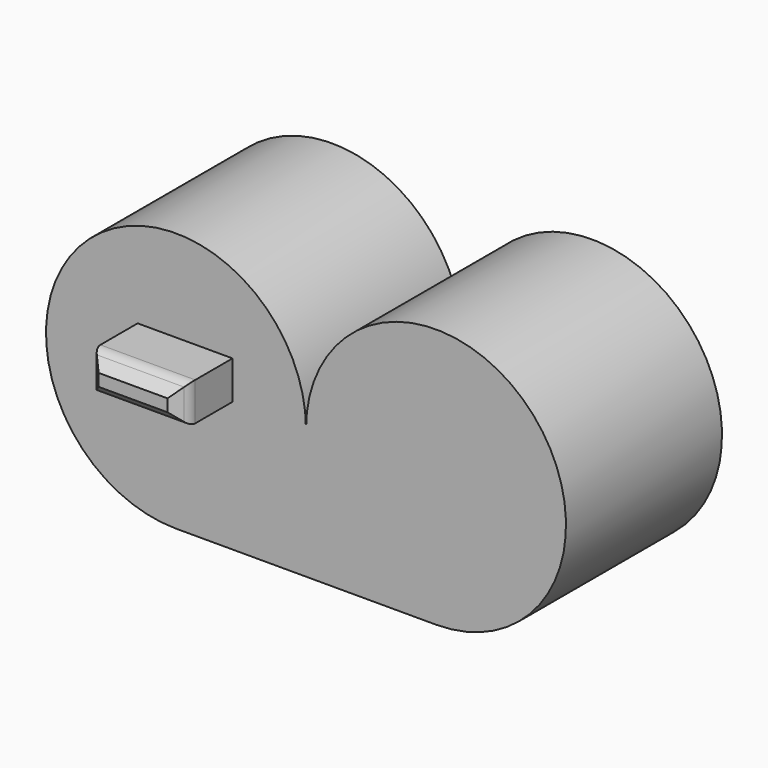
from build123d import *

# Parameters (mm, degrees)
F1_DEPTH = 76.2
F2_W     = 37.0748843998
F2_H     = 14.9495508522
F3_DEPTH = 25.4
F4_SIZE  = 5.08
F5_R     = 5.08


with BuildPart() as f1:
    # F0 (on Front) → F1 (new body)
    with BuildSketch(Plane.XZ):
        with BuildLine():
            ThreePointArc((0, 0), (-86.7210244843, 35.9210244843), (-50.8, -50.8))
            Line((-50.8, -50.8), (50.8, -50.8))
            ThreePointArc((50.8, -50.8), (86.7210244843, 35.9210244843), (0, 0))
        make_face()
    extrude(amount=F1_DEPTH)

    # F2 (on face) → F3 (join)
    with BuildSketch(Plane.XZ.offset(76.2)):
        with Locations((-47.2405822948, 7.4747754261)):
            Rectangle(F2_W, F2_H)
    extrude(amount=F3_DEPTH)

    # F4
    f4_edges = [f1.edges().sort_by_distance(p)[0] for p in [
        (-47.240582, -101.6, 14.949551),
        (-65.778024, -101.6, 7.474775),
        (-47.240582, -101.6, 0),
        (-28.70314, -101.6, 7.474775),
    ]]
    chamfer(f4_edges, length=F4_SIZE)

    # F5
    f5_edges = [f1.edges().sort_by_distance(p)[0] for p in [
        (-47.240582, -96.52, 0),
        (-65.778024, -96.52, 7.474775),
        (-47.240582, -96.52, 14.949551),
        (-28.70314, -96.52, 7.474775),
    ]]
    fillet(f5_edges, radius=F5_R)


solid = f1.part
